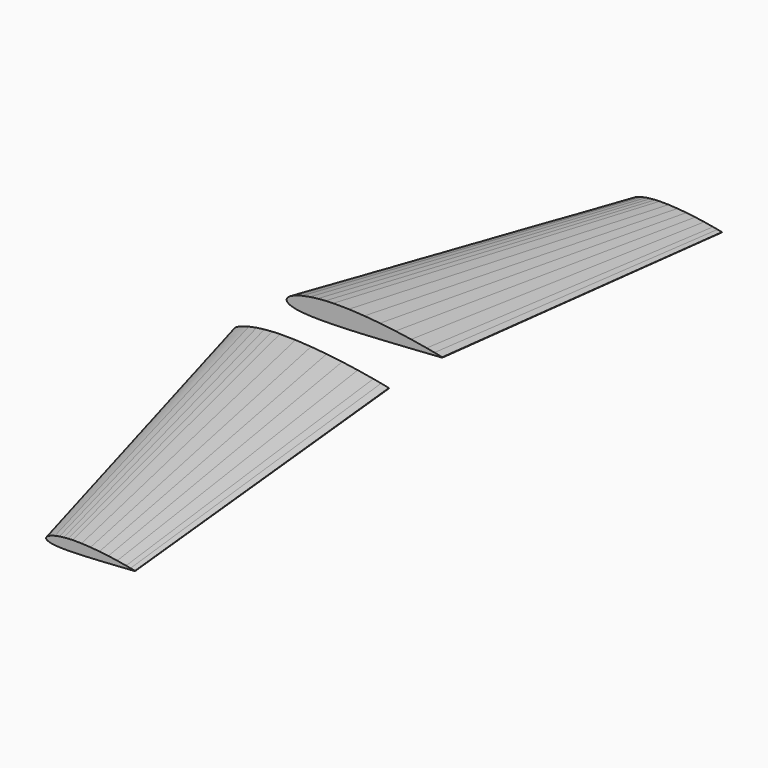
from build123d import *


with BuildPart() as f3:
    # F2 (on offset) → F3 section 0
    with BuildSketch(Plane.XZ.offset(-1500)):
        with BuildLine():
            Line((-453.024005903, 134.070815636), (-488.024005903, 127.210815636))
            add(Edge.make_bspline(
                [(-488.024005903, 127.210815636), (-505.524005903, 122.520815636), (-500.2827367227, 124.0903816748), (-524.2115035713, 116.9246020698), (-540.5564075877, 108.8332722079), (-549.2720273912, 103.9636179679), (-562.9742481019, 87.5249499302), (-549.0618991003, 75.3944652873), (-540.7368431214, 71.7342588003), (-522.7393658392, 66.1975777348), (-511.0469874932, 64.3602690089), (-505.524005903, 63.580815636)],
                knots=[0, 0, 0, 0, 0.0927402139, 0.1863001415, 0.2818539948, 0.3525968802, 0.4435048891, 0.5264431503, 0.5945362542, 0.6876161998, 0.7794915956, 0.7794915956, 0.7794915956, 0.7794915956], degree=3))
            Line((-505.524005903, 63.580815636), (-488.024005903, 61.550815636))
            add(Edge.make_bspline(
                [(-488.024005903, 61.550815636), (-478.4452616439, 60.6895704297), (-465.7346175052, 59.8951974592), (-453.024005903, 59.100815636)],
                knots=[0.8709425935, 0.8709425935, 0.8709425935, 0.8709425935, 1, 1, 1, 1], degree=3))
            Line((-453.024005903, 59.100815636), (-418.024005903, 58.190815636))
            Line((-418.024005903, 58.190815636), (-383.024005903, 58.260815636))
            Line((-383.024005903, 58.260815636), (-348.024005903, 58.960815636))
            Line((-348.024005903, 58.960815636), (-278.024005903, 61.200815636))
            Line((-278.024005903, 61.200815636), (-208.024005903, 64.420815636))
            Line((-208.024005903, 64.420815636), (-138.024005903, 68.480815636))
            Line((-138.024005903, 68.480815636), (-68.024005903, 72.820815636))
            Line((-68.024005903, 72.820815636), (1.975994097, 77.300815636))
            Line((1.975994097, 77.300815636), (71.975994097, 82.060815636))
            Line((71.975994097, 82.060815636), (106.975994097, 84.440815636))
            Line((106.975994097, 84.440815636), (141.975994097, 86.890815636))
            Line((141.975994097, 86.890815636), (141.975994097, 88.710815636))
            Line((141.975994097, 88.710815636), (106.975994097, 95.780815636))
            Line((106.975994097, 95.780815636), (71.975994097, 102.360815636))
            Line((71.975994097, 102.360815636), (1.975994097, 114.050815636))
            Line((1.975994097, 114.050815636), (-68.024005903, 124.060815636))
            Line((-68.024005903, 124.060815636), (-138.024005903, 132.320815636))
            Line((-138.024005903, 132.320815636), (-208.024005903, 138.480815636))
            Line((-208.024005903, 138.480815636), (-278.024005903, 142.400815636))
            Line((-278.024005903, 142.400815636), (-348.024005903, 142.960815636))
            Line((-348.024005903, 142.960815636), (-383.024005903, 141.490815636))
            Line((-383.024005903, 141.490815636), (-418.024005903, 138.620815636))
            Line((-418.024005903, 138.620815636), (-453.024005903, 134.070815636))
        make_face()
    # F1 (on Front) → F3 section 1
    with BuildSketch(Plane.XZ):
        with BuildLine():
            Line((-140, 19.14), (-160, 15.22))
            add(Edge.make_bspline(
                [(-160, 15.22), (-163.3614930577, 14.3462198296), (-170.1141907895, 12.5909363071), (-179.8146019131, 9.5772340737), (-190.1840383373, 4.6735107199), (-194.947511806, 1.9498605419), (-202.8425195497, -7.4613949262), (-194.8759768107, -14.3885759744), (-190.1226032141, -16.4811567906), (-179.8370560736, -19.6446277986), (-173.1559442507, -20.6945857665), (-170, -21.14)],
                knots=[0, 0, 0, 0, 0.0927402139, 0.1863001415, 0.2818539948, 0.3525968802, 0.4435048891, 0.5264431503, 0.5945362542, 0.6876161998, 0.7794915956, 0.7794915956, 0.7794915956, 0.7794915956], degree=3))
            Line((-170, -21.14), (-160, -22.3))
            add(Edge.make_bspline(
                [(-160, -22.3), (-154.5264132597, -22.7921350592), (-147.2632066298, -23.2460675296), (-140, -23.7)],
                knots=[0.8709425935, 0.8709425935, 0.8709425935, 0.8709425935, 1, 1, 1, 1], degree=3))
            Line((-140, -23.7), (-120, -24.22))
            Line((-120, -24.22), (-100, -24.18))
            Line((-100, -24.18), (-80, -23.78))
            Line((-80, -23.78), (-40, -22.5))
            Line((-40, -22.5), (0, -20.66))
            Line((0, -20.66), (40, -18.34))
            Line((40, -18.34), (80, -15.86))
            Line((80, -15.86), (120, -13.3))
            Line((120, -13.3), (160, -10.58))
            Line((160, -10.58), (180, -9.22))
            Line((180, -9.22), (200, -7.82))
            Line((200, -7.82), (200, -6.78))
            Line((200, -6.78), (180, -2.74))
            Line((180, -2.74), (160, 1.02))
            Line((160, 1.02), (120, 7.7))
            Line((120, 7.7), (80, 13.42))
            Line((80, 13.42), (40, 18.14))
            Line((40, 18.14), (0, 21.66))
            Line((0, 21.66), (-40, 23.9))
            Line((-40, 23.9), (-80, 24.22))
            Line((-80, 24.22), (-100, 23.38))
            Line((-100, 23.38), (-120, 21.74))
            Line((-120, 21.74), (-140, 19.14))
        make_face()
    loft()


with BuildPart() as f5_1:
    # F5: instance of F3
    add(f3.part.mirror(Plane.XZ.offset(-1650)))


solid = Compound([f3.part, f5_1.part])
